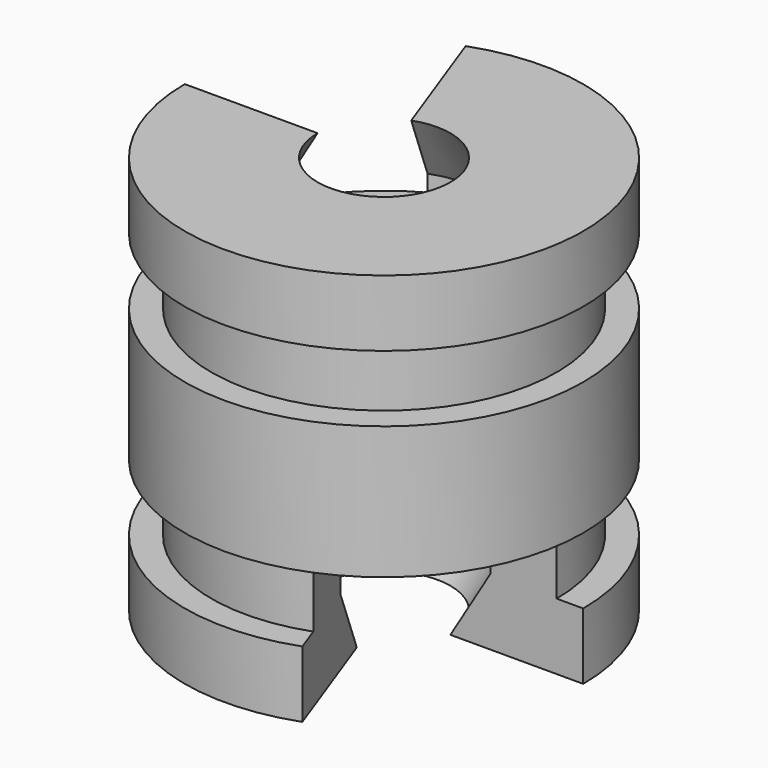
from build123d import *

# Parameters (mm, degrees)
SKETCH001_W  = 16
SKETCH001_H  = 16
GROOVE_ANGLE = -70


with BuildPart() as part:
    # Sketch (on XZ_Plane of Origin) → Revolution (revolve)
    with BuildSketch(Plane.XZ):
        Polygon((-5, 15), (-15, 15), (-15, 10), (-13, 10), (-13, 5), (-15, 5), (-15, -5), (-13, -5), (-13, -10), (-15, -10), (-15, -15), (-5, -15), (-8, -10), (-8, 10), align=None)
    revolve(axis=Axis((0, 0, 0), (0, 0, 1)))

    # Sketch001 (on XZ_Plane of Origin) → Groove (revolve, cut)
    with BuildSketch(Plane.XZ):
        with Locations((-8, 13)):
            Rectangle(SKETCH001_W, SKETCH001_H)
        with Locations((8, -13)):
            Rectangle(SKETCH001_W, SKETCH001_H)
    revolve(axis=Axis((0, 0, 0), (0, 0, 1)), revolution_arc=GROOVE_ANGLE, mode=Mode.SUBTRACT)


solid = part.part
